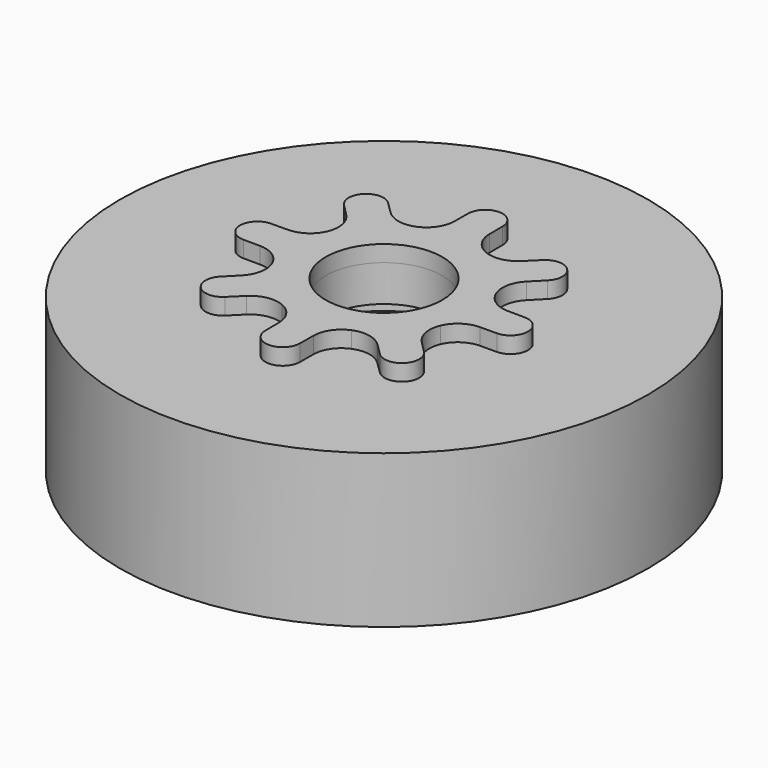
from build123d import *

# Parameters (mm, degrees)
SKETCH013_R           = 14.5
PAD005_DEPTH          = 8.4
PAD006_DEPTH          = 0.9
POLARPATTERN006_COUNT = 8
SKETCH023_R           = 12.5
POCKET008_DEPTH       = 5
SKETCH017_R           = 5.25
POCKET006_DEPTH       = 1.4
SKETCH018_R           = 3.2
POCKET007_DEPTH       = 8.401
POCKET007_DEPTH_BACK  = 0.901


with BuildPart() as part:
    # Sketch013 → Pad005 (new body)
    with BuildSketch(Plane.XY):
        Circle(SKETCH013_R)
    extrude(amount=-PAD005_DEPTH)

    # Sketch016 → Pad006 (join)
    with BuildSketch(Plane.XY):
        with BuildLine():
            ThreePointArc((0.9499750638, 6.9568831834), (0, 7.9), (-0.9499750638, 6.9568831834))
            Line((-0.9499750638, 6.9568831834), (-0.9566171674, 6.0401804808))
            ThreePointArc((-1.9134171618, 4.6193976626), (-1.2209267144, 5.1856138051), (-0.9566171674, 6.0401804808))
            Line((-1.9134171618, 4.6193976626), (0, 0))
            Line((0, 0), (1.9134171618, 4.6193976626))
            ThreePointArc((0.9566171674, 6.0401804808), (1.2209267144, 5.1856138051), (1.9134171618, 4.6193976626))
            Line((0.9499750638, 6.9568831834), (0.9566171674, 6.0401804808))
        make_face()
    pad006 = extrude(amount=PAD006_DEPTH)

    # PolarPattern006: Pad006 ×8 about axis
    polarpattern006_axis = Axis((0, 0, 0), (0, 0, 1))
    for i in range(1, POLARPATTERN006_COUNT):
        add(pad006.rotate(polarpattern006_axis, i * 360 / POLARPATTERN006_COUNT))

    # Sketch023 → Pocket008 (cut)
    with BuildSketch(Plane.XY.offset(-8.4)):
        Circle(SKETCH023_R)
    extrude(amount=POCKET008_DEPTH, mode=Mode.SUBTRACT)

    # Sketch017 → Pocket006 (cut)
    with BuildSketch(Plane.XY.offset(-3.4)):
        Circle(SKETCH017_R)
    extrude(amount=POCKET006_DEPTH, mode=Mode.SUBTRACT)

    # Sketch018 → Pocket007 (cut, two sides)
    with BuildSketch(Plane.XY) as pocket007_sk:
        Circle(SKETCH018_R)
    extrude(amount=-POCKET007_DEPTH, mode=Mode.SUBTRACT)
    extrude(pocket007_sk.sketch, amount=POCKET007_DEPTH_BACK, mode=Mode.SUBTRACT)


solid = part.part
